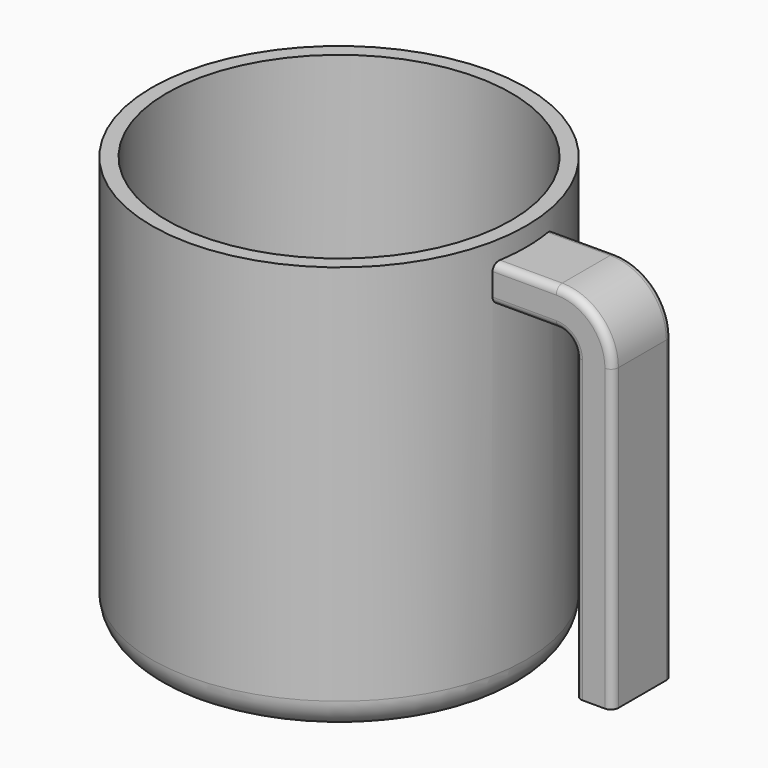
from build123d import *

# Parameters (mm, degrees)
F0_R      = 25
F1_DEPTH  = 55
F2_R      = 4
F14_T     = -2
F4_W      = 10
F4_H      = 5
F16_R     = 1
F3_R      = 23
F17_DEPTH = 50


with BuildPart() as f1:
    # F0 (on Top) → F1 (new body)
    with BuildSketch(Plane.XY):
        Circle(F0_R)
    extrude(amount=F1_DEPTH)

    # F2
    f2_edges = [f1.edges().sort_by_distance(p)[0] for p in [
        (-25, 0, 0),
    ]]
    fillet(f2_edges, radius=F2_R)

    # F14
    f14_openings = [f1.faces().sort_by_distance(p)[0] for p in [
        (0, 0, 55),
    ]]
    offset(amount=F14_T, openings=f14_openings)

    # F15: sweep along a path in F13
    with BuildLine(Plane.XZ) as f15_path:
        Line((0, 50), (33, 50))
        ThreePointArc((33, 50), (36.5355339059, 48.5355339059), (38, 45))
        Line((38, 45), (38, 5))
    # F4 (on Right) → F15 (sweep)
    with BuildSketch(Plane.YZ):
        with Locations((0, 50)):
            Rectangle(F4_W, F4_H)
    sweep(path=f15_path.line)

    # F16
    f16_edges = [f1.edges().sort_by_distance(p)[0] for p in [
        (40.5, -5, 25),
        (40.5, 5, 25),
        (35.5, -5, 25),
        (35.5, 5, 25),
    ]]
    fillet(f16_edges, radius=F16_R)

    # F3 (on face) → F17 (cut)
    with BuildSketch(Plane.XY.offset(55)):
        Circle(F3_R)
    extrude(amount=-F17_DEPTH, mode=Mode.SUBTRACT)


solid = f1.part
